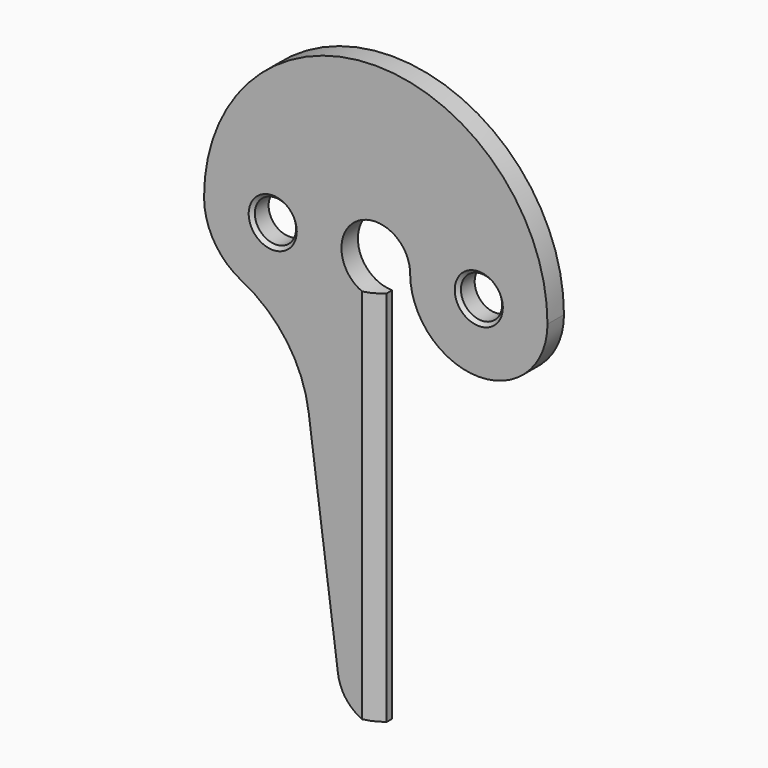
from build123d import *

# Parameters (mm, degrees)
F0_R     = 3
F1_DEPTH = 3
F2_SIZE  = 2
F3_SIZE  = 0.5
F4_SIZE  = 0.5


with BuildPart() as f1:
    # F0 (on Front) → F1 (new body)
    with BuildSketch(Plane.XZ):
        with BuildLine():
            ThreePointArc((5, 0), (15, -10), (25, 0))
            ThreePointArc((25, 0), (0, 25), (-25, 0))
            ThreePointArc((-25, 0), (-23.515691, -5.242423), (-19.5034, -8.928571))
            ThreePointArc((-19.5034, -8.928571), (-12.938924, -14.570541), (-9.766986, -22.624297))
            Line((-9.766986, -22.624297), (-5.491523, -54.734824))
            ThreePointArc((-5.491523, -54.734824), (-3.665561, -58.303294), (0, -59.925571))
            Line((0, -59.925571), (0, -5))
            ThreePointArc((0, -5), (-3.535534, 3.535534), (5, 0))
        make_face()
        with Locations((-15, 0)):
            Circle(F0_R, mode=Mode.SUBTRACT)
        with Locations((15, 0)):
            Circle(F0_R, mode=Mode.SUBTRACT)
    extrude(amount=F1_DEPTH)

    # F2
    f2_edges = [f1.edges().sort_by_distance(p)[0] for p in [
        (0, -3, -32.462785),
    ]]
    chamfer(f2_edges, length=F2_SIZE)

    # F3
    f3_edges = [f1.edges().sort_by_distance(p)[0] for p in [
        (-18, -3, 0),
    ]]
    chamfer(f3_edges, length=F3_SIZE)

    # F4
    f4_edges = [f1.edges().sort_by_distance(p)[0] for p in [
        (12, -3, 0),
    ]]
    chamfer(f4_edges, length=F4_SIZE)


solid = f1.part
